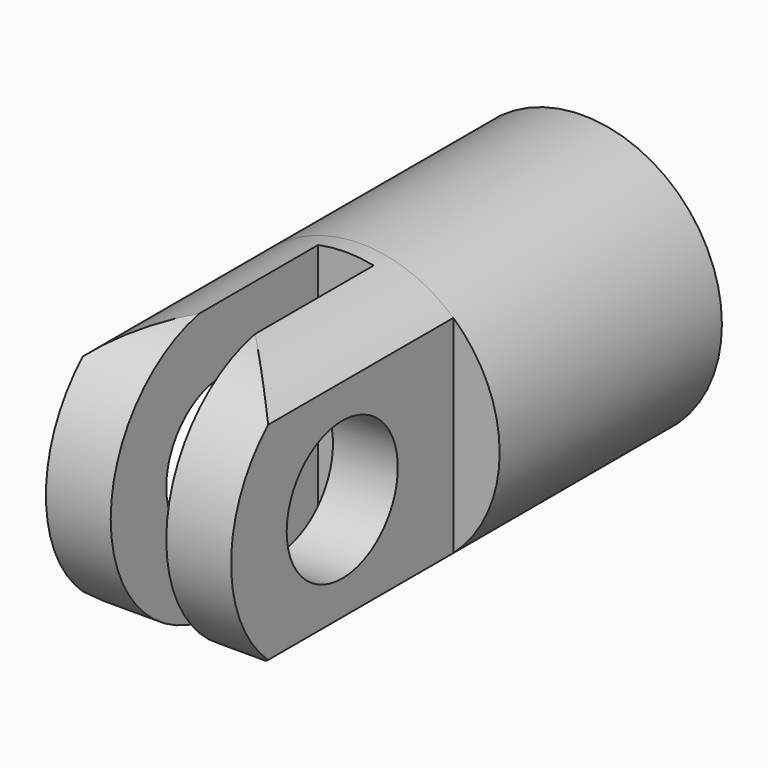
from build123d import *

# Parameters (mm, degrees)
F0_R      = 9.525
F0_R_2    = 4.7625
F1_DEPTH  = 19.05
F3_DEPTH  = 19.05
F4_R      = 4.7625
F5_DEPTH  = 15.876
F7_DEPTH  = 15.876
F8_W      = 3.81
F8_H      = 20.32
F9_DEPTH  = 9.526
F10_DEPTH = 9.526


with BuildPart() as f1:
    # F0 (on Front) → F1 (new body)
    with BuildSketch(Plane.XZ):
        Circle(F0_R)
        Circle(F0_R_2, mode=Mode.SUBTRACT)
    extrude(amount=F1_DEPTH)

    # F2 (on face) → F3 (join)
    with BuildSketch(Plane.XZ.offset(19.05)):
        with BuildLine():
            Line((-6.35, 7.099516), (-6.35, -7.099516))
            ThreePointArc((-6.35, -7.099516), (0, -9.525), (6.35, -7.099516))
            Line((6.35, -7.099516), (6.35, 7.099516))
            ThreePointArc((6.35, 7.099516), (0, 9.525), (-6.35, 7.099516))
        make_face()
    extrude(amount=F3_DEPTH)

    # F4 (on face) → F5 (cut, through all)
    with BuildSketch(Plane(origin=(-6.35, 0, 0), x_dir=(0, -1, 0), z_dir=(-1, 0, 0))):
        with Locations((28.575, 0)):
            Circle(F4_R)
    extrude(amount=-F5_DEPTH, mode=Mode.SUBTRACT)

    # F6 (on face) → F7 (cut, through all)
    with BuildSketch(Plane.YZ.offset(6.35)):
        with BuildLine():
            ThreePointArc((-28.854043, -9.520912), (-38.1, 0), (-28.854043, 9.520912))
            Line((-28.854043, 9.520912), (-28.854043, 11.027435))
            Line((-28.854043, 11.027435), (-38.735, 11.027435))
            Line((-38.735, 11.027435), (-38.735, 9.520912))
            Line((-38.735, 9.520912), (-38.735, -9.520912))
            Line((-38.735, -9.520912), (-38.735, -10.820097))
            Line((-38.735, -10.820097), (-28.854043, -10.820097))
            Line((-28.854043, -10.820097), (-28.854043, -9.520912))
        make_face()
    extrude(amount=-F7_DEPTH, mode=Mode.SUBTRACT)

    # F8 (on Top) → F9 (cut, through all)
    with BuildSketch(Plane.XY):
        with Locations((0, -30.48)):
            Rectangle(F8_W, F8_H)
    extrude(amount=-F9_DEPTH, mode=Mode.SUBTRACT)

    # F8 (on Top) → F10 (cut, through all)
    with BuildSketch(Plane.XY):
        with Locations((0, -30.48)):
            Rectangle(F8_W, F8_H)
    extrude(amount=F10_DEPTH, mode=Mode.SUBTRACT)


solid = f1.part
